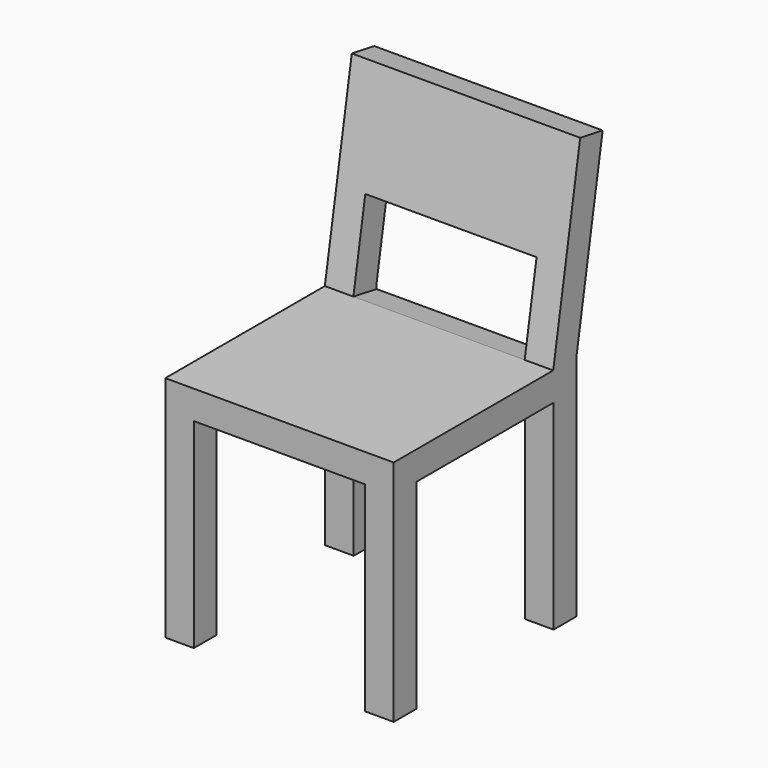
from build123d import *

# Parameters (mm, degrees)
F0_W      = 400
F0_H      = 400
F1_DEPTH  = 400
F2_W      = 300
F2_H      = 350
F3_DEPTH  = 400.001
F4_W      = 300
F4_H      = 350
F5_DEPTH  = 400.001
F8_W      = 400
F8_H      = 330.777927181
F9_DEPTH  = 50
F10_DEPTH = 9.0852224141
F11_W     = 300
F11_H     = 150
F12_DEPTH = 176.0726081542


with BuildPart() as f1:
    # F0 (on Top) → F1 (new body)
    with BuildSketch(Plane.XY):
        Rectangle(F0_W, F0_H)
    extrude(amount=F1_DEPTH)

    # F2 (on face) → F3 (cut, through all)
    with BuildSketch(Plane.XZ.offset(200)):
        with Locations((0, 175)):
            Rectangle(F2_W, F2_H)
    extrude(amount=-F3_DEPTH, mode=Mode.SUBTRACT)

    # F4 (on face) → F5 (cut, through all)
    with BuildSketch(Plane.YZ.offset(200)):
        with Locations((0, 175)):
            Rectangle(F4_W, F4_H)
    extrude(amount=-F5_DEPTH, mode=Mode.SUBTRACT)



with BuildPart() as f9:
    # F8 (on face) → F9 (new body)
    with BuildSketch(Plane(origin=(0, 125.5652334135, -22.1405384897), x_dir=(1, 0, 0), z_dir=(0, -0.984807753, 0.1736481777))):
        with Locations((0, 594.3105737075)):
            Rectangle(F8_W, F8_H)
    extrude(amount=F9_DEPTH)


with BuildPart() as f1_1:
    add(f1.part)
    # F10 (add, through all): a face of the model
    f10_faces = [f9.part.faces().sort_by_distance(p)[0] for p in [
        (0, 175.4264955469, 404.6059930296),
    ]]

    add(f9.part)  # F10 merges F9
    extrude(f10_faces, amount=F10_DEPTH)

    # F11 (on face) → F12 (cut, through all)
    with BuildSketch(Plane(origin=(0, 76.3248457628, -13.4581296064), x_dir=(1, 0, 0), z_dir=(0, -0.984807753, 0.1736481777))):
        with Locations((0, 494.8363877028)):
            Rectangle(F11_W, F11_H)
    extrude(amount=-F12_DEPTH, mode=Mode.SUBTRACT)


solid = f1_1.part
